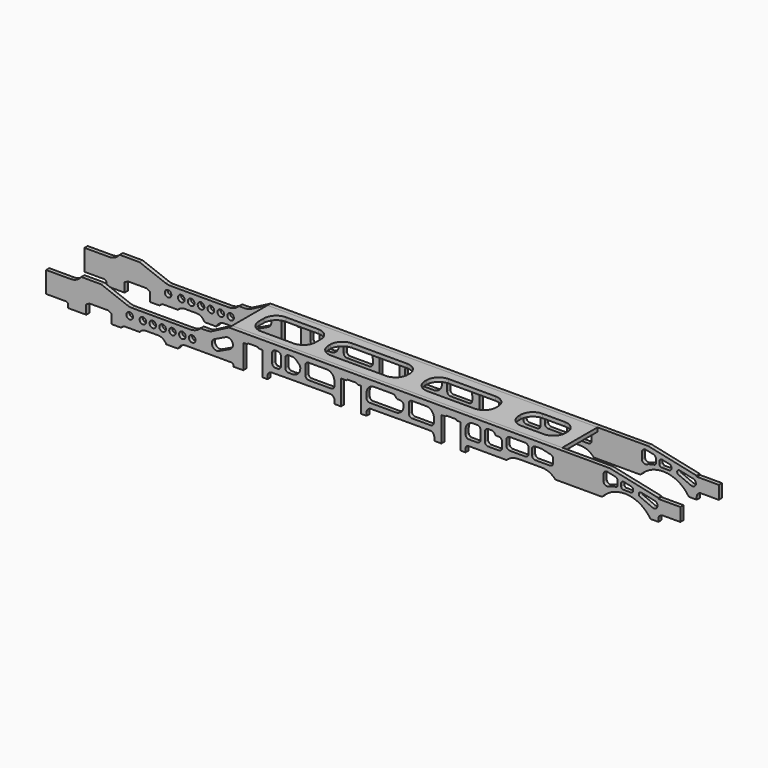
from build123d import *

# Parameters (mm, degrees)
F2_START = 500
F1_R     = 75
F2_DEPTH = 90
F5_START = 1360
F4_W     = 7500
F4_H     = 1000
F5_DEPTH = 90


with BuildPart() as f2:
    # F1 (on Front) → F2 (new body)
    with BuildSketch(Plane.XZ.offset(F2_START)):
        with BuildLine():
            Line((1250, 1370), (800, 1370))
            ThreePointArc((800, 1370), (694.16407865, 1281.6718427), (560, 1250))
            Line((560, 1250), (0, 1250))
            Line((0, 1250), (0, 770))
            Line((0, 770), (450, 770))
            ThreePointArc((450, 770), (485.3553390593, 755.3553390593), (500, 720))
            Line((500, 720), (500, 650))
            Line((500, 650), (912.5, 650))
            Line((912.5, 650), (912.5, 858.1421054838))
            Line((912.5, 858.1421054838), (985, 900))
            Line((985, 900), (1415, 900))
            Line((1415, 900), (1487.5, 858.1421054838))
            Line((1487.5, 858.1421054838), (1487.5, 650))
            Line((1487.5, 650), (1708.3974596216, 650))
            ThreePointArc((1708.3974596216, 650), (1745, 686.6025403784), (1795, 700))
            Line((1795, 700), (2123.0131584643, 700))
            ThreePointArc((2123.0131584643, 700), (2191.3339973466, 751.6590212458), (2275, 770))
            Line((2275, 770), (2545, 770))
            ThreePointArc((2545, 770), (2654.544511501, 737.3320053068), (2728.3030277982, 650))
            Line((2728.3030277982, 650), (2996.6969722018, 650))
            ThreePointArc((2996.6969722018, 650), (3070.455488499, 737.3320053068), (3180, 770))
            Line((3180, 770), (4210, 770))
            ThreePointArc((4210, 770), (4245.3553390593, 755.3553390593), (4260, 720))
            Line((4260, 720), (4260, 700))
            Line((4260, 700), (4480, 700))
            Line((4480, 700), (4480, 1250))
            Line((4480, 1250), (4566.6987298108, 1250))
            ThreePointArc((4566.6987298108, 1250), (4585, 1268.3012701892), (4610, 1275))
            Line((4610, 1275), (4790, 1275))
            ThreePointArc((4790, 1275), (4815, 1268.3012701892), (4833.3012701892, 1250))
            Line((4833.3012701892, 1250), (4920, 1250))
            Line((4920, 1250), (4920, 700))
            Line((4920, 700), (5030, 700))
            Line((5030, 700), (5030, 765.6557306328))
            ThreePointArc((5030, 765.6557306328), (5059.0571072976, 836.1334290559), (5129.3421195004, 865.6535665757))
            Line((5129.3421195004, 865.6535665757), (5790, 870))
            Line((5790, 870), (6455, 870))
            ThreePointArc((6455, 870), (6525.7106781187, 840.7106781187), (6555, 770))
            Line((6555, 770), (6555, 700))
            Line((6555, 700), (6700, 700))
            Line((6700, 700), (6700, 1260))
            Line((6700, 1260), (6821.6987298108, 1260))
            ThreePointArc((6821.6987298108, 1260), (6840, 1278.3012701892), (6865, 1285))
            Line((6865, 1285), (7035, 1285))
            ThreePointArc((7035, 1285), (7060, 1278.3012701892), (7078.3012701892, 1260))
            Line((7078.3012701892, 1260), (7160, 1260))
            Line((7160, 1260), (7160, 700))
            Line((7160, 700), (7280, 700))
            Line((7280, 700), (7280, 770.6005951682))
            ThreePointArc((7280, 770.6005951682), (7309.0766615605, 841.0979714639), (7379.3976012918, 870.5987807307))
            Line((7379.3976012918, 870.5987807307), (8110, 875))
            Line((8110, 875), (8720, 875))
            ThreePointArc((8720, 875), (8790.7106781187, 845.7106781187), (8820, 775))
            Line((8820, 775), (8820, 700))
            Line((8820, 700), (8980, 700))
            Line((8980, 700), (8980, 1270))
            Line((8980, 1270), (9066.6987298108, 1270))
            ThreePointArc((9066.6987298108, 1270), (9085, 1288.3012701892), (9110, 1295))
            Line((9110, 1295), (9290, 1295))
            ThreePointArc((9290, 1295), (9315, 1288.3012701892), (9333.3012701892, 1270))
            Line((9333.3012701892, 1270), (9420, 1270))
            Line((9420, 1270), (9420, 700))
            Line((9420, 700), (9530, 700))
            Line((9530, 700), (9530, 775))
            ThreePointArc((9530, 775), (9551.966991411, 828.033008589), (9605, 850))
            Line((9605, 850), (10459.5004537209, 850))
            ThreePointArc((10459.5004537209, 850), (10586.6760302581, 931.4835124201), (10735, 960))
            Line((10735, 960), (11265, 960))
            ThreePointArc((11265, 960), (11432.3320053068, 923.3180424917), (11568.9736830714, 820))
            Line((11568.9736830714, 820), (12631.0263169286, 820))
            ThreePointArc((12631.0263169286, 820), (13201.7073161048, 1051.5214291979), (13730, 735))
            Line((13730, 735), (13910, 735))
            Line((13910, 735), (13910, 795))
            ThreePointArc((13910, 795), (13939.2893218813, 865.7106781187), (14010, 895))
            Line((14010, 895), (14410, 895))
            Line((14410, 895), (14410, 1195))
            Line((14410, 1195), (13910, 1195))
            Line((13910, 1195), (13910, 1215))
            Line((13910, 1215), (12810, 1450))
            Line((12810, 1450), (4155, 1450))
            Line((4155, 1450), (3788.7120423764, 1258.994418668))
            ThreePointArc((3788.7120423764, 1258.994418668), (3721.4084224739, 1233.6225176857), (3650, 1225))
            Line((3650, 1225), (3509.5207879912, 1225))
            ThreePointArc((3509.5207879912, 1225), (3402.4754878398, 1151.0434814225), (3275, 1125))
            Line((3275, 1125), (1950, 1125))
            ThreePointArc((1950, 1125), (1895.8419989005, 1129.9289730982), (1843.4636200041, 1144.5539272206))
            Line((1843.4636200041, 1144.5539272206), (1250, 1370))
        make_face()
        with Locations((1900, 950)):
            Circle(F1_R, mode=Mode.SUBTRACT)
        with Locations((2200, 950)):
            Circle(F1_R, mode=Mode.SUBTRACT)
        with Locations((2424, 950)):
            Circle(F1_R, mode=Mode.SUBTRACT)
        with Locations((2648, 950)):
            Circle(F1_R, mode=Mode.SUBTRACT)
        with Locations((2872, 950)):
            Circle(F1_R, mode=Mode.SUBTRACT)
        with Locations((3096, 950)):
            Circle(F1_R, mode=Mode.SUBTRACT)
        with Locations((3320, 950)):
            Circle(F1_R, mode=Mode.SUBTRACT)
        with BuildLine():
            Line((4179.7640727723, 1026.3248483911), (3929.7640727722, 906.3248483911))
            ThreePointArc((3929.7640727722, 906.3248483911), (3776.3248483911, 960.2359272278), (3830.2359272278, 1113.6751516089))
            Line((3830.2359272278, 1113.6751516089), (4080.2359272278, 1233.6751516089))
            ThreePointArc((4080.2359272278, 1233.6751516089), (4233.6751516089, 1179.7640727722), (4179.7640727723, 1026.3248483911))
        make_face(mode=Mode.SUBTRACT)
        with BuildLine():
            ThreePointArc((5135, 1260), (5156.966991411, 1313.033008589), (5210, 1335))
            Line((5210, 1335), (5260, 1335))
            ThreePointArc((5260, 1335), (5313.033008589, 1313.033008589), (5335, 1260))
            Line((5335, 1260), (5335, 1060))
            ThreePointArc((5335, 1060), (5313.033008589, 1006.966991411), (5260, 985))
            Line((5260, 985), (5210, 985))
            ThreePointArc((5210, 985), (5156.966991411, 1006.966991411), (5135, 1060))
            Line((5135, 1060), (5135, 1260))
        make_face(mode=Mode.SUBTRACT)
        with BuildLine():
            ThreePointArc((5510, 985), (5456.966991411, 1006.966991411), (5435, 1060))
            Line((5435, 1060), (5435, 1260))
            ThreePointArc((5435, 1260), (5456.966991411, 1313.033008589), (5510, 1335))
            Line((5510, 1335), (5580, 1335))
            ThreePointArc((5580, 1335), (5634.9751840086, 1324.5626351973), (5682.2997540094, 1294.7030552429))
            Line((5682.2997540094, 1294.7030552429), (5743.1998360063, 1237.9128100338))
            ThreePointArc((5743.1998360063, 1237.9128100338), (5766.7060074385, 1204.6523467644), (5775, 1164.7774398719))
            Line((5775, 1164.7774398719), (5775, 1160))
            ThreePointArc((5775, 1160), (5723.7436867076, 1036.2563132924), (5600, 985))
            Line((5600, 985), (5510, 985))
        make_face(mode=Mode.SUBTRACT)
        with BuildLine():
            ThreePointArc((5890, 1260), (5911.966991411, 1313.033008589), (5965, 1335))
            Line((5965, 1335), (6375, 1335))
            ThreePointArc((6375, 1335), (6498.7436867076, 1283.7436867076), (6550, 1160))
            Line((6550, 1160), (6550, 1060))
            ThreePointArc((6550, 1060), (6528.033008589, 1006.966991411), (6475, 985))
            Line((6475, 985), (5965, 985))
            ThreePointArc((5965, 985), (5911.966991411, 1006.966991411), (5890, 1060))
            Line((5890, 1060), (5890, 1260))
        make_face(mode=Mode.SUBTRACT)
        with BuildLine():
            ThreePointArc((7355, 985), (7301.966991411, 1006.966991411), (7280, 1060))
            Line((7280, 1060), (7280, 1160))
            ThreePointArc((7280, 1160), (7331.2563132924, 1283.7436867076), (7455, 1335))
            Line((7455, 1335), (7875.4356076261, 1335))
            ThreePointArc((7875.4356076261, 1335), (7916.514799439, 1322.7495019901), (7944.1742430504, 1290))
            ThreePointArc((7944.1742430504, 1290), (7962.6138721247, 1268.1669986733), (7990, 1260))
            Line((7990, 1260), (8045, 1260))
            ThreePointArc((8045, 1260), (8098.033008589, 1238.033008589), (8120, 1185))
            Line((8120, 1185), (8120, 1160))
            ThreePointArc((8120, 1160), (8068.7436867076, 1036.2563132924), (7945, 985))
            Line((7945, 985), (7355, 985))
        make_face(mode=Mode.SUBTRACT)
        with BuildLine():
            ThreePointArc((8240, 1260), (8261.966991411, 1313.033008589), (8315, 1335))
            Line((8315, 1335), (8635, 1335))
            ThreePointArc((8635, 1335), (8758.7436867076, 1283.7436867076), (8810, 1160))
            Line((8810, 1160), (8810, 1060))
            ThreePointArc((8810, 1060), (8788.033008589, 1006.966991411), (8735, 985))
            Line((8735, 985), (8315, 985))
            ThreePointArc((8315, 985), (8261.966991411, 1006.966991411), (8240, 1060))
            Line((8240, 1060), (8240, 1260))
        make_face(mode=Mode.SUBTRACT)
        with BuildLine():
            ThreePointArc((9530, 1160), (9581.2563132924, 1283.7436867076), (9705, 1335))
            Line((9705, 1335), (9795, 1335))
            ThreePointArc((9795, 1335), (9848.033008589, 1313.033008589), (9870, 1260))
            Line((9870, 1260), (9870, 1060))
            ThreePointArc((9870, 1060), (9848.033008589, 1006.966991411), (9795, 985))
            Line((9795, 985), (9605, 985))
            ThreePointArc((9605, 985), (9551.966991411, 1006.966991411), (9530, 1060))
            Line((9530, 1060), (9530, 1160))
        make_face(mode=Mode.SUBTRACT)
        with BuildLine():
            Line((10045, 1335), (10125.4356076261, 1335))
            ThreePointArc((10125.4356076261, 1335), (10166.514799439, 1322.7495019901), (10194.1742430504, 1290))
            ThreePointArc((10194.1742430504, 1290), (10212.6138721247, 1268.1669986733), (10240, 1260))
            Line((10240, 1260), (10285, 1260))
            ThreePointArc((10285, 1260), (10338.033008589, 1238.033008589), (10360, 1185))
            Line((10360, 1185), (10360, 1060))
            ThreePointArc((10360, 1060), (10338.033008589, 1006.966991411), (10285, 985))
            Line((10285, 985), (10045, 985))
            ThreePointArc((10045, 985), (9991.966991411, 1006.966991411), (9970, 1060))
            Line((9970, 1060), (9970, 1260))
            ThreePointArc((9970, 1260), (9991.966991411, 1313.033008589), (10045, 1335))
        make_face(mode=Mode.SUBTRACT)
        with BuildLine():
            ThreePointArc((10460, 1260), (10481.966991411, 1313.033008589), (10535, 1335))
            Line((10535, 1335), (10885, 1335))
            ThreePointArc((10885, 1335), (10938.033008589, 1313.033008589), (10960, 1260))
            Line((10960, 1260), (10960, 1135))
            ThreePointArc((10960, 1135), (10938.033008589, 1081.966991411), (10885, 1060))
            Line((10885, 1060), (10535, 1060))
            ThreePointArc((10535, 1060), (10481.966991411, 1081.966991411), (10460, 1135))
            Line((10460, 1135), (10460, 1260))
        make_face(mode=Mode.SUBTRACT)
        with BuildLine():
            ThreePointArc((13495.1857944897, 1100.055041938), (13467.1510609012, 1161.1486810367), (13525.2601922653, 1194.9378490912))
            Line((13525.2601922653, 1194.9378490912), (13828.419213773, 1130.1720581327))
            ThreePointArc((13828.419213773, 1130.1720581327), (13887.9663189447, 1027.7655546289), (13780.300177332, 978.3595666876))
            Line((13780.300177332, 978.3595666876), (13495.1857944897, 1100.055041938))
        make_face(mode=Mode.SUBTRACT)
        with BuildLine():
            Line((11115, 1335), (11245, 1335))
            ThreePointArc((11245, 1335), (11253.2823644556, 1334.5412801005), (11261.4634146341, 1333.1707317073))
            Line((11261.4634146341, 1333.1707317073), (11461.4634146342, 1288.1707317073))
            ThreePointArc((11461.4634146342, 1288.1707317073), (11503.5651607082, 1261.8521285666), (11520, 1215))
            Line((11520, 1215), (11520, 1135))
            ThreePointArc((11520, 1135), (11498.033008589, 1081.966991411), (11445, 1060))
            Line((11445, 1060), (11115, 1060))
            ThreePointArc((11115, 1060), (11061.966991411, 1081.966991411), (11040, 1135))
            Line((11040, 1135), (11040, 1260))
            ThreePointArc((11040, 1260), (11061.966991411, 1313.033008589), (11115, 1335))
        make_face(mode=Mode.SUBTRACT)
        with BuildLine():
            ThreePointArc((12665, 1286.0055577906), (12692.8310786801, 1344.3158730146), (12755.6691429738, 1359.3504823489))
            Line((12755.6691429738, 1359.3504823489), (12925.6691429738, 1323.0323005307))
            ThreePointArc((12925.6691429738, 1323.0323005307), (12968.310315224, 1296.8562972923), (12985, 1249.6873759724))
            Line((12985, 1249.6873759724), (12985, 1169.6873759724))
            ThreePointArc((12985, 1169.6873759724), (12972.939345532, 1137.1204286085), (12942.5757575758, 1120.2646292139))
            ThreePointArc((12942.5757575758, 1120.2646292139), (12853.998566807, 1101.3321315016), (12768.2352941176, 1072.1941965761))
            ThreePointArc((12768.2352941176, 1072.1941965761), (12698.1230794997, 1079.4563785019), (12665, 1141.6763393618))
            Line((12665, 1141.6763393618), (12665, 1286.0055577906))
        make_face(mode=Mode.SUBTRACT)
        with BuildLine():
            ThreePointArc((13065, 1231.4560625218), (13083.5540524534, 1270.3296060045), (13125.4460953159, 1280.352678894))
            Line((13125.4460953159, 1280.352678894), (13295.4460953159, 1244.0344970758))
            ThreePointArc((13295.4460953159, 1244.0344970758), (13323.8735434826, 1226.5838282502), (13335, 1195.1378807036))
            Line((13335, 1195.1378807036), (13335, 1170.1378807036))
            ThreePointArc((13335, 1170.1378807036), (13320.3553390593, 1134.7825416443), (13285, 1120.1378807036))
            Line((13285, 1120.1378807036), (13115, 1120.1378807036))
            ThreePointArc((13115, 1120.1378807036), (13079.6446609407, 1134.7825416443), (13065, 1170.1378807036))
            Line((13065, 1170.1378807036), (13065, 1231.4560625218))
        make_face(mode=Mode.SUBTRACT)
    extrude(amount=F2_DEPTH)


with BuildPart() as f3_1:
    # F3: instance of F2
    add(f2.part.mirror(Plane.XZ))


with BuildPart() as f5:
    # F4 (on Top) → F5 (new body)
    with BuildSketch(Plane.XY.offset(F5_START)):
        with Locations((7905, 0)):
            Rectangle(F4_W, F4_H)
        with BuildLine():
            Line((5435, -350), (4695, -350))
            ThreePointArc((4695, -350), (4500.5456351737, -269.4543648263), (4420, -75))
            Line((4420, -75), (4420, 75))
            ThreePointArc((4420, 75), (4500.5456351737, 269.4543648263), (4695, 350))
            Line((4695, 350), (5435, 350))
            ThreePointArc((5435, 350), (5629.4543648263, 269.4543648263), (5710, 75))
            Line((5710, 75), (5710, -75))
            ThreePointArc((5710, -75), (5629.4543648263, -269.4543648263), (5435, -350))
        make_face(mode=Mode.SUBTRACT)
        with BuildLine():
            ThreePointArc((5965, 25), (6045.5456351737, 219.4543648263), (6240, 300))
            Line((6240, 300), (7490, 300))
            ThreePointArc((7490, 300), (7684.4543648263, 219.4543648263), (7765, 25))
            Line((7765, 25), (7765, -25))
            ThreePointArc((7765, -25), (7684.4543648263, -219.4543648263), (7490, -300))
            Line((7490, -300), (6240, -300))
            ThreePointArc((6240, -300), (6045.5456351737, -219.4543648263), (5965, -25))
            Line((5965, -25), (5965, 25))
        make_face(mode=Mode.SUBTRACT)
        with BuildLine():
            ThreePointArc((8155, 25), (8235.5456351737, 219.4543648263), (8430, 300))
            Line((8430, 300), (9500, 300))
            ThreePointArc((9500, 300), (9694.4543648263, 219.4543648263), (9775, 25))
            Line((9775, 25), (9775, -25))
            ThreePointArc((9775, -25), (9694.4543648263, -219.4543648263), (9500, -300))
            Line((9500, -300), (8430, -300))
            ThreePointArc((8430, -300), (8235.5456351737, -219.4543648263), (8155, -25))
            Line((8155, -25), (8155, 25))
        make_face(mode=Mode.SUBTRACT)
        with BuildLine():
            ThreePointArc((10290, 25), (10370.5456351737, 219.4543648263), (10565, 300))
            Line((10565, 300), (11075, 300))
            ThreePointArc((11075, 300), (11269.4543648263, 219.4543648263), (11350, 25))
            Line((11350, 25), (11350, -25))
            ThreePointArc((11350, -25), (11269.4543648263, -219.4543648263), (11075, -300))
            Line((11075, -300), (10565, -300))
            ThreePointArc((10565, -300), (10370.5456351737, -219.4543648263), (10290, -25))
            Line((10290, -25), (10290, 25))
        make_face(mode=Mode.SUBTRACT)
    extrude(amount=F5_DEPTH)


solid = Compound([f2.part, f3_1.part, f5.part])
